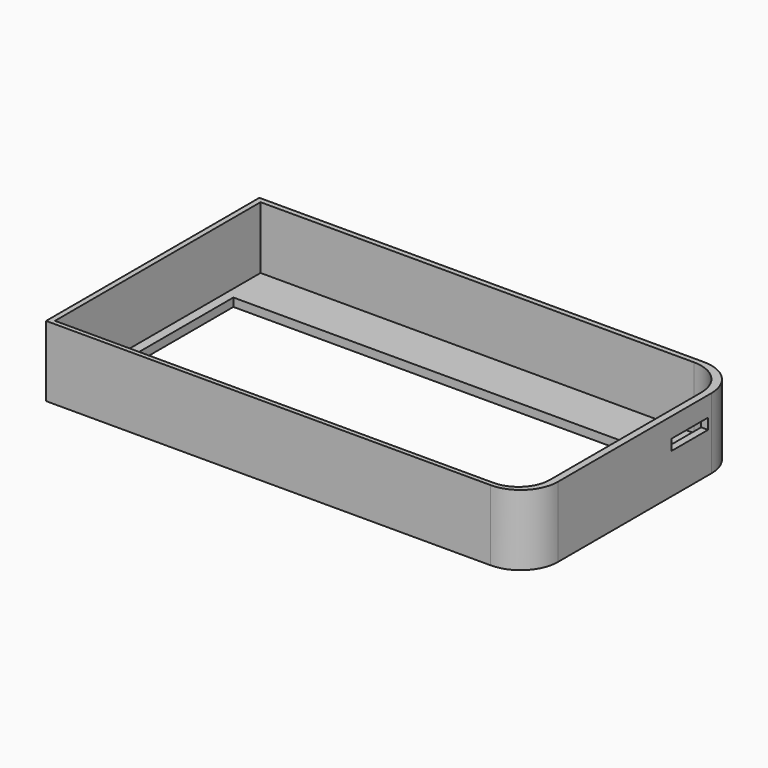
from build123d import *

# Parameters (mm, degrees)
SKETCH014_W        = 116.03
SKETCH014_H        = 64.17
SKETCH014_W_2      = 97.158283
SKETCH014_H_2      = 39.832356
EXTRUDE002_DEPTH   = 17
POCKET005004_DEPTH = 15
FILLET_R           = 9
SKETCH018_W        = 11
SKETCH018_H        = 2.6
POCKET005005_DEPTH = 5


with BuildPart() as part:
    # Sketch014 → Extrude002 (new body)
    with BuildSketch(Plane.XY):
        with Locations((5.870297, 0.068238)):
            Rectangle(SKETCH014_W, SKETCH014_H)
        with Locations((-0.027307, -0.001692)):
            Rectangle(SKETCH014_W_2, SKETCH014_H_2, mode=Mode.SUBTRACT)
    extrude(amount=EXTRUDE002_DEPTH)

    # Sketch017 (on Face10 of Extrude002) → Pocket005004 (cut)
    with BuildSketch(Plane.XY.offset(17)):
        with BuildLine():
            Line((-41.973666, 30.903742), (53.475128, 30.903742))
            ThreePointArc((62.221588, 22.157282), (59.659809, 28.341963), (53.475128, 30.903742))
            Line((62.221588, 22.157282), (62.221588, -23.433549))
            ThreePointArc((54.711295, -30.943842), (60.021874, -28.744128), (62.221588, -23.433549))
            Line((54.711295, -30.943842), (-43.311095, -30.943842))
            Line((-43.311095, -30.943842), (-50.860429, -30.943842))
            Line((-50.860429, -30.943842), (-50.860429, -23.394508))
            Line((-50.860429, -23.394508), (-50.860429, 22.016979))
            Line((-50.860429, 30.903742), (-50.860429, 22.016979))
            Line((-41.973666, 30.903742), (-50.860429, 30.903742))
        make_face()
    extrude(amount=-POCKET005004_DEPTH, mode=Mode.SUBTRACT)

    # Fillet
    fillet_edges = [part.edges().sort_by_distance(p)[0] for p in [
        (63.885297, 32.153238, 8.5),
        (63.885297, -32.016762, 8.5),
    ]]
    fillet(fillet_edges, radius=FILLET_R)

    # Sketch018 (on Face6 of Fillet) → Pocket005005 (cut)
    with BuildSketch(Plane.YZ.offset(63.885297)):
        with Locations((16.617887, 10.937535)):
            Rectangle(SKETCH018_W, SKETCH018_H)
    extrude(amount=-POCKET005005_DEPTH, mode=Mode.SUBTRACT)


solid = part.part
